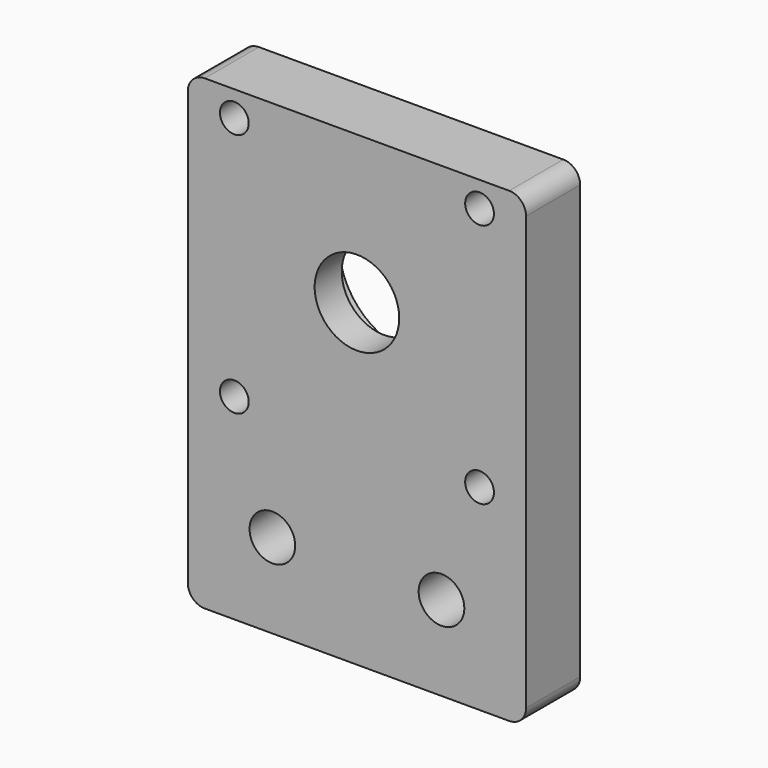
from build123d import *

# Parameters (mm, degrees)
F0_R     = 2.7
F0_R_2   = 1.7
F0_R_3   = 5
F1_DEPTH = 8
F2_R     = 8.5
F3_DEPTH = 4


with BuildPart() as f1:
    # F0 (on Front) → F1 (new body)
    with BuildSketch(Plane.XZ):
        with BuildLine():
            ThreePointArc((-18, 17.5), (-19.414214, 16.914214), (-20, 15.5))
            Line((-20, 15.5), (-20, -35.7))
            ThreePointArc((-20, -35.7), (-19.414214, -37.114214), (-18, -37.7))
            Line((-18, -37.7), (18, -37.7))
            ThreePointArc((18, -37.7), (19.414214, -37.114214), (20, -35.7))
            Line((20, -35.7), (20, 15.5))
            ThreePointArc((20, 15.5), (19.414214, 16.914214), (18, 17.5))
            Line((18, 17.5), (-18, 17.5))
        make_face()
        with Locations((-10, -27.7)):
            Circle(F0_R, mode=Mode.SUBTRACT)
        with Locations((-14.5, -14.5)):
            Circle(F0_R_2, mode=Mode.SUBTRACT)
        with Locations((10, -27.7)):
            Circle(F0_R, mode=Mode.SUBTRACT)
        with Locations((14.5, -14.5)):
            Circle(F0_R_2, mode=Mode.SUBTRACT)
        with Locations((-14.5, 14.5)):
            Circle(F0_R_2, mode=Mode.SUBTRACT)
        Circle(F0_R_3, mode=Mode.SUBTRACT)
        with Locations((14.5, 14.5)):
            Circle(F0_R_2, mode=Mode.SUBTRACT)
    extrude(amount=-F1_DEPTH)

    # F2 (on face) → F3 (cut)
    with BuildSketch(Plane(origin=(0, 8, 0), x_dir=(-1, 0, 0), z_dir=(0, 1, 0))):
        Circle(F2_R)
    extrude(amount=-F3_DEPTH, mode=Mode.SUBTRACT)


solid = f1.part
